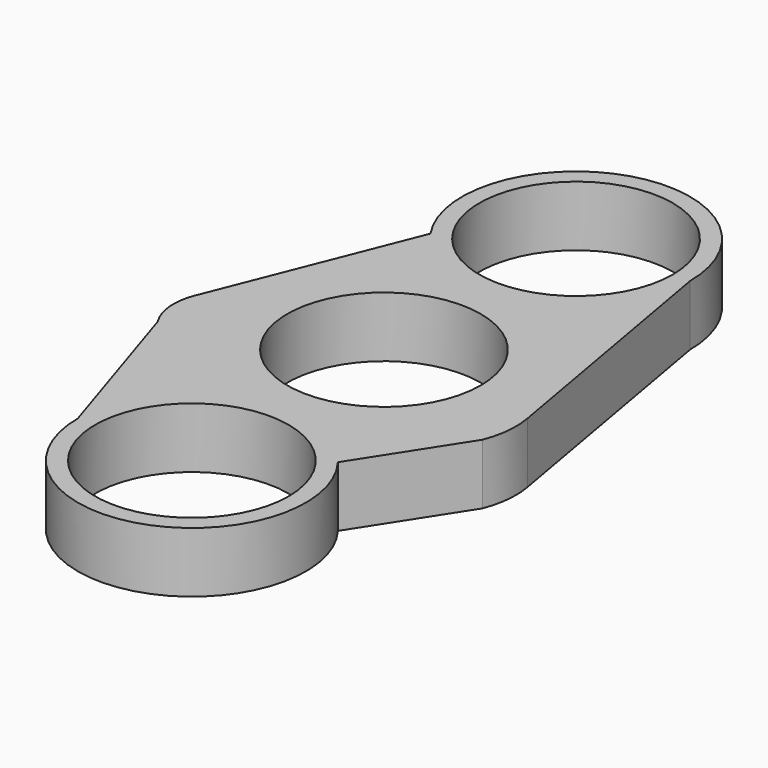
from build123d import *

# Parameters (mm, degrees)
F0_R     = 11.2
F1_DEPTH = 7


with BuildPart() as f1:
    # F0 (on Top) → F1 (new body)
    with BuildSketch(Plane.XY):
        with BuildLine():
            Line((18.537866, -2.442975), (13.2, 27.790055))
            ThreePointArc((13.2, 27.790055), (-3.88528, 40.405307), (-10.912818, 20.363723))
            Line((-10.912818, 20.363723), (-19.97491, -2.442975))
            ThreePointArc((-19.97491, -2.442975), (-20.415085, -5.53006), (-19.400092, -8.478559))
            Line((-19.400092, -8.478559), (-13.2, -27.790055))
            ThreePointArc((-13.2, -27.790055), (4.216756, -40.298411), (10.505904, -19.798435))
            Line((10.505904, -19.798435), (17.963048, -8.19115))
            ThreePointArc((17.963048, -8.19115), (18.647312, -5.356748), (18.537866, -2.442975))
        make_face()
        with Locations((0, -27.790055)):
            Circle(F0_R, mode=Mode.SUBTRACT)
        Circle(F0_R, mode=Mode.SUBTRACT)
        with Locations((0, 27.790055)):
            Circle(F0_R, mode=Mode.SUBTRACT)
    extrude(amount=F1_DEPTH)


solid = f1.part
